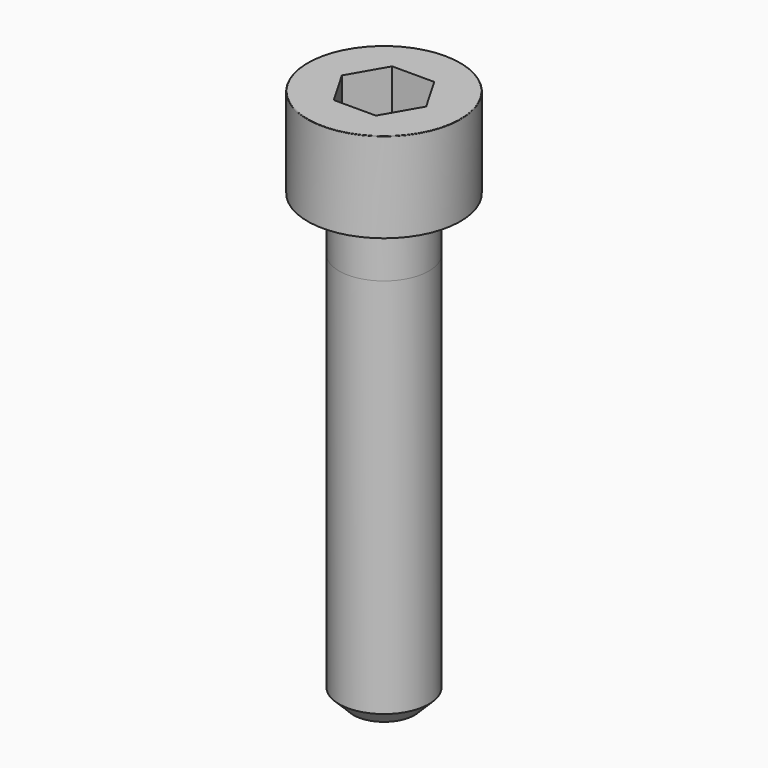
from build123d import *

# Parameters (mm, degrees)
POCKET_DEPTH = 4.06


with BuildPart() as part:
    # Sketch → Revolve (revolve)
    with BuildSketch(Plane.YZ):
        with BuildLine():
            Line((2.499, 0), (4.25, 0))
            Line((4.25, 0), (4.25, 4.97229))
            ThreePointArc((4.25, 4.97229), (4.241884, 4.991884), (4.22229, 5))
            Line((4.22229, 5), (0, 5))
            Line((0, -25), (0, 5))
            Line((1.7, -25), (0, -25))
            Line((2.5, -24.2), (1.7, -25))
            Line((2.5, -3), (2.5, -24.2))
            Line((2.499, 0), (2.5, -3))
        make_face()
    revolve(axis=Axis((0, 0, 0), (0, 0, 1)))

    # Sketch001 → Pocket (cut)
    with BuildSketch(Plane.XY.offset(5)):
        Polygon((2.344042, 0), (1.172021, 2.03), (-1.172021, 2.03), (-2.344042, 0), (-1.172021, -2.03), (1.172021, -2.03), align=None)
    extrude(amount=-POCKET_DEPTH, mode=Mode.SUBTRACT)


solid = part.part
